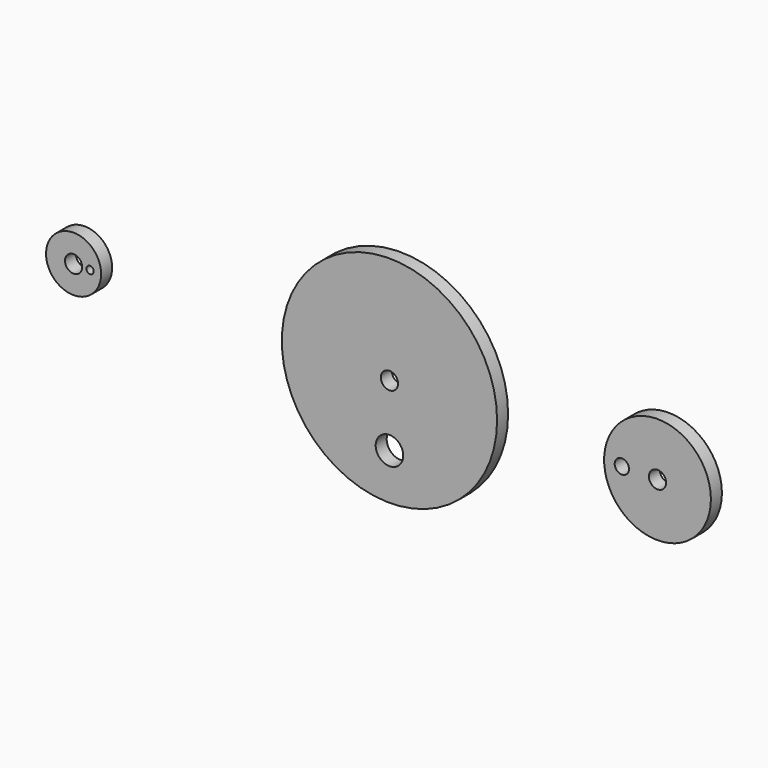
from build123d import *

# Parameters (mm, degrees)
F0_R     = 5.08
F0_R_2   = 1.5875
F0_R_3   = 0.677591
F0_R_4   = 9.8425
F0_R_5   = 1.322799
F0_R_6   = 19.84375
F0_R_7   = 2.54
F1_DEPTH = 2.54


with BuildPart() as f1:
    # F0 (on Front) → F1 (new body)
    with BuildSketch(Plane.XZ):
        with Locations((-58.237664, 0)):
            Circle(F0_R)
        with Locations((-58.237664, 0)):
            Circle(F0_R_2, mode=Mode.SUBTRACT)
        with Locations((-55.200603, 0)):
            Circle(F0_R_3, mode=Mode.SUBTRACT)
        with Locations((49.421869, 0)):
            Circle(F0_R_4)
        with Locations((42.847272, 0)):
            Circle(F0_R_5, mode=Mode.SUBTRACT)
        with Locations((49.421869, 0)):
            Circle(F0_R_2, mode=Mode.SUBTRACT)
        Circle(F0_R_6)
        with Locations((0, -11.353673)):
            Circle(F0_R_7, mode=Mode.SUBTRACT)
        Circle(F0_R_2, mode=Mode.SUBTRACT)
    extrude(amount=F1_DEPTH)


solid = f1.part
